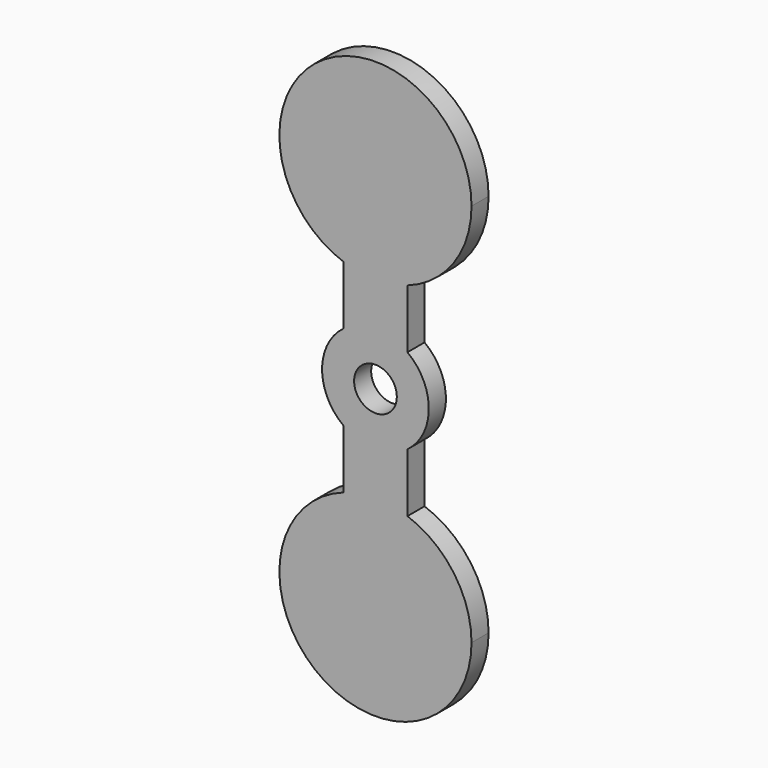
from build123d import *

# Parameters (mm, degrees)
F0_W     = 30
F0_H     = 180
F0_R     = 10.01
F1_DEPTH = 10
F2_R     = 10.01
F3_DEPTH = 10
F5_DEPTH = 10


with BuildPart() as f1:
    # F0 (on Front) → F1 (new body)
    with BuildSketch(Plane.XZ):
        Rectangle(F0_W, F0_H)
        Circle(F0_R, mode=Mode.SUBTRACT)
    extrude(amount=F1_DEPTH)

    # F2 (on face) → F3 (join)
    with BuildSketch(Plane.XZ.offset(10)):
        with BuildLine():
            Line((-15, -20), (-15, 20))
            ThreePointArc((-15, 20), (-25, 0), (-15, -20))
        make_face()
        with BuildLine():
            Line((15, -20), (15, 20))
            ThreePointArc((15, 20), (0, 25), (-15, 20))
            Line((-15, 20), (-15, -20))
            ThreePointArc((-15, -20), (0, -25), (15, -20))
        make_face()
        Circle(F2_R, mode=Mode.SUBTRACT)
        with BuildLine():
            ThreePointArc((15, -20), (22.360679775, -11.1803398875), (25, 0))
            ThreePointArc((25, 0), (22.360679775, 11.1803398875), (15, 20))
            Line((15, 20), (15, -20))
        make_face()
    extrude(amount=-F3_DEPTH)

    # F4 (on face) → F5 (join)
    with BuildSketch(Plane.XZ.offset(10)):
        with BuildLine():
            Line((-15, -90), (-15, -47.5735931288))
            ThreePointArc((-15, -47.5735931288), (-25.9807621135, -126.7423461417), (45, -90))
            ThreePointArc((45, -90), (36.7423461417, -64.0192378865), (15, -47.5735931288))
            Line((15, -47.5735931288), (15, -90))
            Line((15, -90), (-15, -90))
        make_face()
        with BuildLine():
            ThreePointArc((15, -47.5735931288), (0, -45), (-15, -47.5735931288))
            Line((-15, -47.5735931288), (-15, -90))
            Line((-15, -90), (15, -90))
            Line((15, -90), (15, -47.5735931288))
        make_face()
        with BuildLine():
            ThreePointArc((15, 47.5735931288), (36.7423461417, 64.0192378865), (45, 90))
            ThreePointArc((45, 90), (-25.9807621135, 126.7423461417), (-15, 47.5735931288))
            Line((-15, 47.5735931288), (-15, 90))
            Line((-15, 90), (15, 90))
            Line((15, 90), (15, 47.5735931288))
        make_face()
        with BuildLine():
            Line((-15, 90), (-15, 47.5735931288))
            ThreePointArc((-15, 47.5735931288), (0, 45), (15, 47.5735931288))
            Line((15, 47.5735931288), (15, 90))
            Line((15, 90), (-15, 90))
        make_face()
    extrude(amount=-F5_DEPTH)


solid = f1.part
